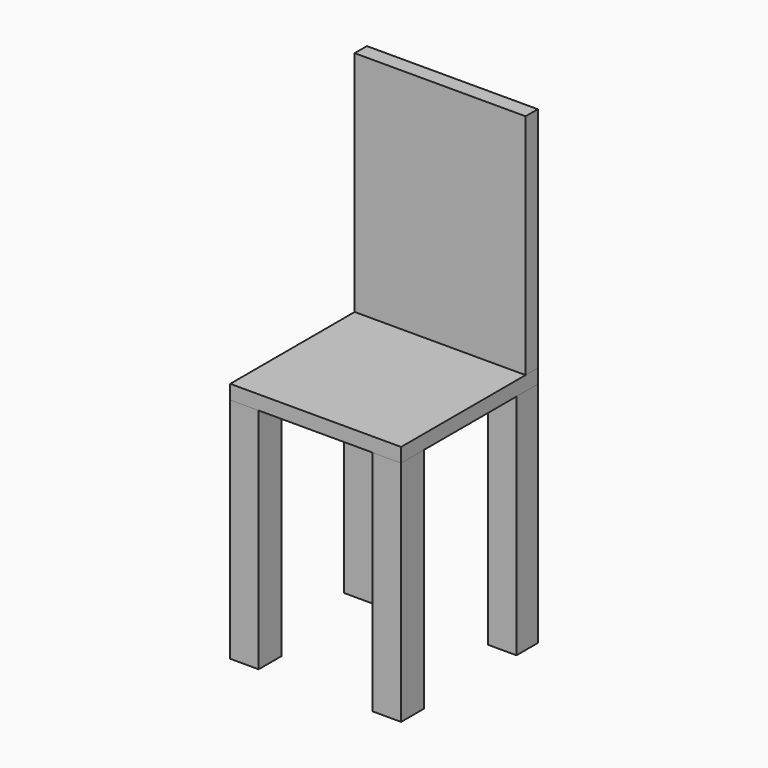
from build123d import *

# Parameters (mm, degrees)
F0_W     = 300
F0_H     = 300
F1_DEPTH = 25
F2_W     = 50
F2_H     = 50
F2_H_2   = 46.749371
F3_DEPTH = 400
F4_W     = 300
F4_H     = 26.887956
F5_DEPTH = 400


with BuildPart() as f1:
    # F0 (on Top) → F1 (new body)
    with BuildSketch(Plane.XY):
        with Locations((24.636572, 0.672424)):
            Rectangle(F0_W, F0_H)
    extrude(amount=F1_DEPTH)


with BuildPart() as f3:
    # F2 (on face) → F3 (new body)
    with BuildSketch(Plane(origin=(0, 0, 0), x_dir=(1, 0, 0), z_dir=(0, 0, -1))):
        with Locations((149.636572, 124.327576)):
            Rectangle(F2_W, F2_H)
        with Locations((-100.363428, 124.327576)):
            Rectangle(F2_W, F2_H)
        with Locations((-100.363428, -125.672424)):
            Rectangle(F2_W, F2_H)
        with Locations((149.636572, -127.297739)):
            Rectangle(F2_W, F2_H_2)
    extrude(amount=F3_DEPTH)


with BuildPart() as f5:
    # F4 (on face) → F5 (new body)
    with BuildSketch(Plane.XY.offset(25)):
        with Locations((24.636572, 137.228446)):
            Rectangle(F4_W, F4_H)
    extrude(amount=F5_DEPTH)


solid = Compound([f1.part, f3.part, f5.part])
